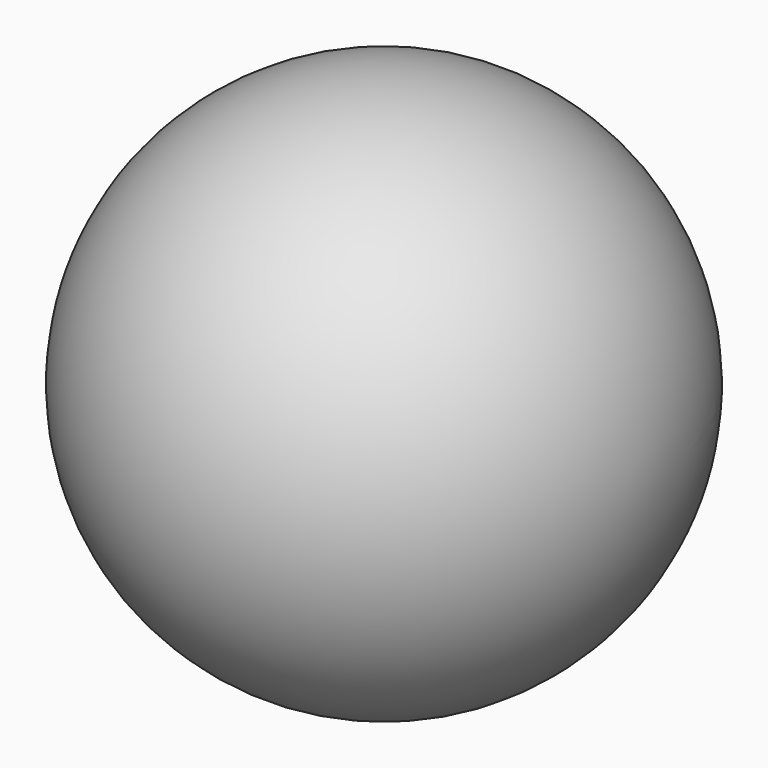
from build123d import *


with BuildPart() as part:
    # Sketch → Revolution (revolve)
    with BuildSketch(Plane.XY):
        with BuildLine():
            ThreePointArc((150, 0), (0, 150), (-150, 0))
            Line((-150, 0), (150, 0))
        make_face()
    revolve(axis=Axis((0, 0, 0), (1, 0, 0)))


solid = part.part
